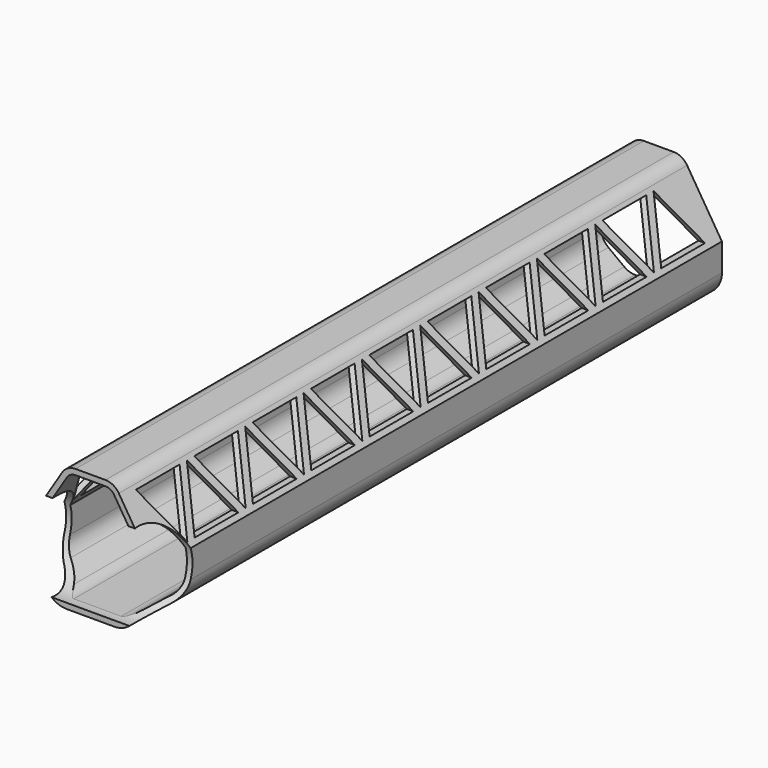
from build123d import *

# Parameters (mm, degrees)
F1_DEPTH = 450
F2_R     = 15
F3_R     = 10
F4_T     = -3.5
F6_DEPTH = 85
F7_R     = 27.877855
F8_DEPTH = 85


with BuildPart() as f1:
    # F0 (on Front) → F1 (new body)
    with BuildSketch(Plane.XZ):
        Polygon((-15, 45), (-40, 5), (-40, -20), (-20, -35), (20, -35), (40, -20), (40, 5), (15, 45), align=None)
    extrude(amount=F1_DEPTH)

    # F2
    f2_edges = [f1.edges().sort_by_distance(p)[0] for p in [
        (-20, -225, -35),
        (-40, -225, -20),
        (20, -225, -35),
        (40, -225, -20),
    ]]
    fillet(f2_edges, radius=F2_R)

    # F3
    f3_edges = [f1.edges().sort_by_distance(p)[0] for p in [
        (15, -225, 45),
        (-15, -225, 45),
    ]]
    fillet(f3_edges, radius=F3_R)

    # F4
    f4_openings = [f1.faces().sort_by_distance(p)[0] for p in [
        (0, -450, 1.855604),
        (0, 0, 1.855604),
    ]]
    offset(amount=F4_T, openings=f4_openings)

    # F5 (on face) → F6 (cut)
    with BuildSketch(Plane(origin=(-40, 0, 0), x_dir=(0, -1, 0), z_dir=(-1, 0, 0))):
        Polygon((415.208789, 8), (397.888281, 38), (380.567773, 8), align=None)
        Polygon((438.3028, 38), (403.661784, 38), (420.982292, 8), align=None)
        Polygon((369.019789, 8), (351.699281, 38), (334.378773, 8), align=None)
        Polygon((322.830789, 8), (305.510281, 38), (288.189773, 8), align=None)
        Polygon((392.1138, 38), (357.472784, 38), (374.793292, 8), align=None)
        Polygon((11.055773, 8), (45.696789, 8), (28.376281, 38), align=None)
        Polygon((51.470292, 8), (68.7908, 38), (34.149784, 38), align=None)
        Polygon((114.9798, 38), (80.338784, 38), (97.659292, 8), align=None)
        Polygon((91.885789, 8), (74.565281, 38), (57.244773, 8), align=None)
        Polygon((161.1688, 38), (126.527784, 38), (143.848292, 8), align=None)
        Polygon((138.074789, 8), (120.754281, 38), (103.433773, 8), align=None)
        Polygon((207.3578, 38), (172.716784, 38), (190.037292, 8), align=None)
        Polygon((184.263789, 8), (166.943281, 38), (149.622773, 8), align=None)
        Polygon((253.5468, 38), (218.905784, 38), (236.226292, 8), align=None)
        Polygon((230.452789, 8), (213.132281, 38), (195.811773, 8), align=None)
        Polygon((299.7358, 38), (265.094784, 38), (282.415292, 8), align=None)
        Polygon((276.641789, 8), (259.321281, 38), (242.000773, 8), align=None)
        Polygon((345.9248, 38), (311.283784, 38), (328.604292, 8), align=None)
    extrude(amount=-F6_DEPTH, mode=Mode.SUBTRACT)

    # F7 (on face) → F8 (cut)
    with BuildSketch(Plane(origin=(-40, 0, 0), x_dir=(0, -1, 0), z_dir=(-1, 0, 0))):
        with Locations((447.128892, -3.75)):
            Circle(F7_R)
    extrude(amount=-F8_DEPTH, mode=Mode.SUBTRACT)


solid = f1.part
